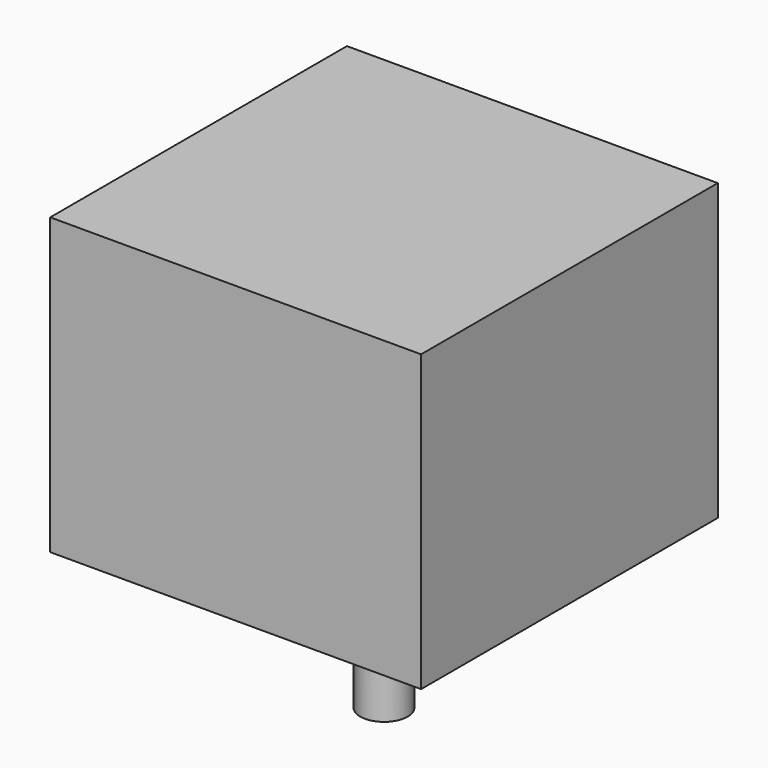
from build123d import *

# Parameters (mm, degrees)
CYLINDER013_R             = 11
CYLINDER013_DEPTH         = 2
CYLINDER014_R             = 2.5
CYLINDER014_DEPTH         = 14
CYLINDER010_R             = 1.5
CYLINDER010_DEPTH         = 10
CYLINDER011_R             = 1.5
CYLINDER011_DEPTH         = 10
CYLINDER012_R             = 1.5
CYLINDER012_DEPTH         = 10
CYLINDER009_R             = 1.5
CYLINDER009_DEPTH         = 10
BOX001_W                  = 39
BOX001_H                  = 31
BOX001_DEPTH              = 39
FUSION001_PLACEMENT_ANGLE = 90


with BuildPart() as cylinder013:
    # Cylinder013 → Cylinder013 (new body)
    with BuildSketch(Plane(origin=(19.5, 33, 19.5), x_dir=(1, 0, 0), z_dir=(0, -1, 0))):
        Circle(CYLINDER013_R)
    extrude(amount=CYLINDER013_DEPTH)


with BuildPart() as cylinder014:
    # Cylinder014 → Cylinder014 (new body)
    with BuildSketch(Plane(origin=(19.5, 33, 19.5), x_dir=(1, 0, 0), z_dir=(0, 1, 0))):
        Circle(CYLINDER014_R)
    extrude(amount=CYLINDER014_DEPTH)


with BuildPart() as cylinder010:
    # Cylinder010 → Cylinder010 (new body)
    with BuildSketch(Plane(origin=(35, 23, 35), x_dir=(1, 0, 0), z_dir=(0, 1, 0))):
        Circle(CYLINDER010_R)
    extrude(amount=CYLINDER010_DEPTH)


with BuildPart() as cylinder011:
    # Cylinder011 → Cylinder011 (new body)
    with BuildSketch(Plane(origin=(35, 23, 4), x_dir=(1, 0, 0), z_dir=(0, 1, 0))):
        Circle(CYLINDER011_R)
    extrude(amount=CYLINDER011_DEPTH)


with BuildPart() as cylinder012:
    # Cylinder012 → Cylinder012 (new body)
    with BuildSketch(Plane(origin=(4, 23, 4), x_dir=(1, 0, 0), z_dir=(0, 1, 0))):
        Circle(CYLINDER012_R)
    extrude(amount=CYLINDER012_DEPTH)


with BuildPart() as cylinder009:
    # Cylinder009 → Cylinder009 (new body)
    with BuildSketch(Plane(origin=(4, 23, 35), x_dir=(1, 0, 0), z_dir=(0, 1, 0))):
        Circle(CYLINDER009_R)
    extrude(amount=CYLINDER009_DEPTH)


with BuildPart() as fusion001:
    # Box001 → Box001 (new body)
    with BuildSketch(Plane.XY):
        with Locations((19.5, 15.5)):
            Rectangle(BOX001_W, BOX001_H)
    extrude(amount=BOX001_DEPTH)

    # Cut005: cut Cylinder009
    add(cylinder009.part, mode=Mode.SUBTRACT)

    # Cut006: cut Cylinder012
    add(cylinder012.part, mode=Mode.SUBTRACT)

    # Cut007: cut Cylinder011
    add(cylinder011.part, mode=Mode.SUBTRACT)

    # Cut008: cut Cylinder010
    add(cylinder010.part, mode=Mode.SUBTRACT)

    # Fusion001: union Cylinder013, Cylinder014
    add(cylinder013.part)
    add(cylinder014.part)


with BuildPart() as fusion001_1:
    # Fusion001 placement: moved
    add(fusion001.part.moved(Location((99.6, -40.9, 88.7))).rotate(Axis((99.6, -40.9, 88.7), (-1, 0, 0)), FUSION001_PLACEMENT_ANGLE))


solid = fusion001_1.part
